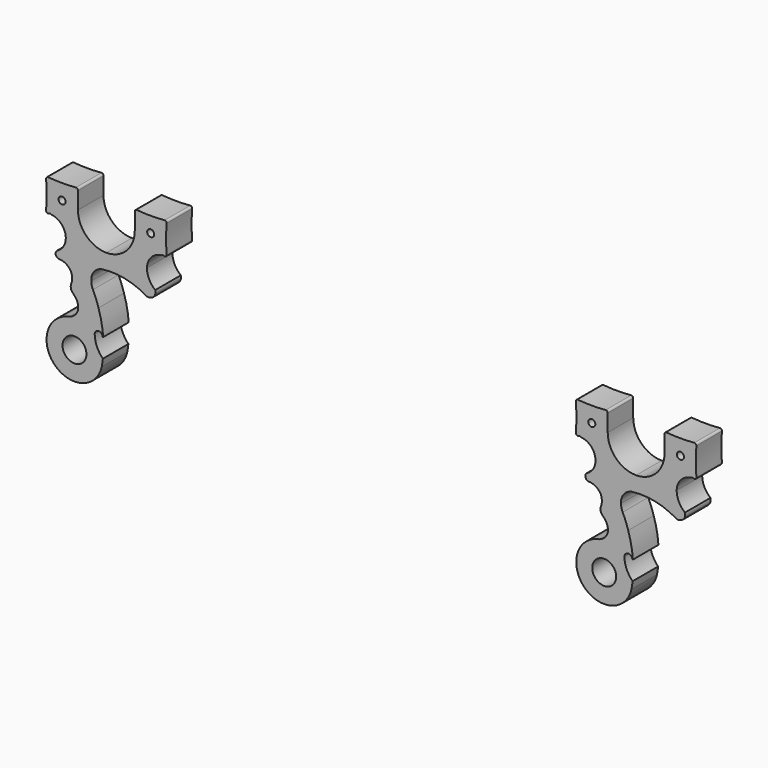
from build123d import *

# Parameters (mm, degrees)
F0_R     = 9.525
F0_R_2   = 2.8067
F1_DEPTH = 25.4


with BuildPart() as f1:
    # F0 (on Front) → F1 (new body)
    with BuildSketch(Plane.XZ):
        with BuildLine():
            Line((-22.588265, 22.588265), (-22.588265, 36.266705))
            ThreePointArc((-22.588265, 36.266705), (-23.053233, 37.389237), (-24.175765, 37.854205))
            ThreePointArc((-24.175765, 37.854205), (-35.288265, 37.365324), (-46.400765, 37.854205))
            ThreePointArc((-46.400765, 37.854205), (-47.523297, 37.389237), (-47.988265, 36.266705))
            ThreePointArc((-47.988265, 36.266705), (-47.499384, 25.154205), (-47.988265, 14.041705))
            ThreePointArc((-47.988265, 14.041705), (-47.523297, 12.919173), (-46.400765, 12.454205))
            ThreePointArc((-46.400765, 12.454205), (-45.068244, 12.890975), (-43.735723, 12.454205))
            ThreePointArc((-43.735723, 12.454205), (-35.629968, 8.337984), (-32.280601, -0.113541))
            ThreePointArc((-32.280601, -0.113541), (-33.939323, -6.291457), (-38.436144, -10.840809))
            ThreePointArc((-38.436144, -10.840809), (-40.41792, -13.832167), (-38.18399, -16.640229))
            ThreePointArc((-38.18399, -16.640229), (-32.433388, -18.067549), (-28.211591, -22.224842))
            ThreePointArc((-28.211591, -22.224842), (-27.245483, -26.860343), (-28.211591, -31.495845))
            ThreePointArc((-28.211591, -31.495845), (-28.331706, -33.559182), (-27.75751, -35.54465))
            ThreePointArc((-27.75751, -35.54465), (-26.54437, -37.116008), (-25.133502, -38.512547))
            ThreePointArc((-25.133502, -38.512547), (-22.821147, -42.839558), (-22.593847, -47.740409))
            ThreePointArc((-22.593847, -47.740409), (-25.223916, -51.955586), (-29.525784, -54.441326))
            ThreePointArc((-29.525784, -54.441326), (-41.337324, -91.767676), (-3.67647, -81.070527))
            ThreePointArc((-3.67647, -81.070527), (-3.183029, -78.114189), (-2.797664, -75.14183))
            ThreePointArc((-2.797664, -75.14183), (-7.485709, -68.271504), (-9.288668, -60.151867))
            ThreePointArc((-9.288668, -60.151867), (-6.237587, -56.858264), (-2.943329, -59.908637))
            Line((-2.943329, -59.908637), (-2.524615, -59.908637))
            ThreePointArc((-2.524615, -59.908637), (-3.840038, -50.189915), (-6.303257, -40.696946))
            ThreePointArc((-6.303257, -40.696946), (-8.243983, -34.922352), (-10.682768, -29.33982))
            ThreePointArc((-10.682768, -29.33982), (-11.687468, -26.588212), (-12.02546, -23.678483))
            ThreePointArc((-12.02546, -23.678483), (-9.912615, -16.644217), (-3.728021, -12.682425))
            ThreePointArc((-3.728021, -12.682425), (14.919126, -13.333205), (32.280601, -20.16832))
            ThreePointArc((32.280601, -20.16832), (35.212846, -20.068653), (37.716438, -18.538941))
            ThreePointArc((37.716438, -18.538941), (38.926607, -16.157288), (38.896301, -13.485985))
            ThreePointArc((38.896301, -13.485985), (34.057568, -7.557131), (32.280601, -0.113541))
            ThreePointArc((32.280601, -0.113541), (35.629968, 8.337984), (43.735723, 12.454205))
            ThreePointArc((43.735723, 12.454205), (45.068244, 12.890975), (46.400765, 12.454205))
            ThreePointArc((46.400765, 12.454205), (47.523297, 12.919173), (47.988265, 14.041705))
            ThreePointArc((47.988265, 14.041705), (47.499384, 25.154205), (47.988265, 36.266705))
            ThreePointArc((47.988265, 36.266705), (47.523297, 37.389237), (46.400765, 37.854205))
            ThreePointArc((46.400765, 37.854205), (35.288265, 37.365324), (24.175765, 37.854205))
            ThreePointArc((24.175765, 37.854205), (23.053233, 37.389237), (22.588265, 36.266705))
            Line((22.588265, 36.266705), (22.588265, 22.588265))
            ThreePointArc((22.588265, 22.588265), (15.972315, 6.61595), (0, 0))
            ThreePointArc((0, 0), (-15.972315, 6.61595), (-22.588265, 22.588265))
        make_face()
        with Locations((-25.385842, -76.283364)):
            Circle(F0_R, mode=Mode.SUBTRACT)
        with Locations((-35.288265, 25.154205)):
            Circle(F0_R_2, mode=Mode.SUBTRACT)
        with Locations((35.288265, 25.154205)):
            Circle(F0_R_2, mode=Mode.SUBTRACT)
        with BuildLine():
            Line((399.03005, 3.783013), (399.03005, 17.461453))
            ThreePointArc((399.03005, 17.461453), (398.565082, 18.583985), (397.44255, 19.048953))
            ThreePointArc((397.44255, 19.048953), (386.33005, 18.560072), (375.21755, 19.048953))
            ThreePointArc((375.21755, 19.048953), (374.095018, 18.583985), (373.63005, 17.461453))
            ThreePointArc((373.63005, 17.461453), (374.118931, 6.348953), (373.63005, -4.763547))
            ThreePointArc((373.63005, -4.763547), (374.095018, -5.886079), (375.21755, -6.351047))
            ThreePointArc((375.21755, -6.351047), (376.550071, -5.914277), (377.882592, -6.351047))
            ThreePointArc((377.882592, -6.351047), (385.988347, -10.467267), (389.337714, -18.918793))
            ThreePointArc((389.337714, -18.918793), (387.678991, -25.096708), (383.182171, -29.646061))
            ThreePointArc((383.182171, -29.646061), (381.200395, -32.637418), (383.434325, -35.445481))
            ThreePointArc((383.434325, -35.445481), (389.184926, -36.8728), (393.406724, -41.030093))
            ThreePointArc((393.406724, -41.030093), (394.372832, -45.665595), (393.406724, -50.301096))
            ThreePointArc((393.406724, -50.301096), (393.286609, -52.364433), (393.860805, -54.349902))
            ThreePointArc((393.860805, -54.349902), (395.073945, -55.921259), (396.484813, -57.317799))
            ThreePointArc((396.484813, -57.317799), (398.797167, -61.64481), (399.024467, -66.545661))
            ThreePointArc((399.024467, -66.545661), (396.394399, -70.760837), (392.09253, -73.246578))
            ThreePointArc((392.09253, -73.246578), (380.28099, -110.572928), (417.941844, -99.875779))
            ThreePointArc((417.941844, -99.875779), (418.435285, -96.91944), (418.820651, -93.947082))
            ThreePointArc((418.820651, -93.947082), (414.132606, -87.076755), (412.329646, -78.957119))
            ThreePointArc((412.329646, -78.957119), (415.380727, -75.663516), (418.674986, -78.713889))
            Line((418.674986, -78.713889), (419.0937, -78.713889))
            ThreePointArc((419.0937, -78.713889), (417.778276, -68.995166), (415.315057, -59.502197))
            ThreePointArc((415.315057, -59.502197), (413.374332, -53.727604), (410.935546, -48.145072))
            ThreePointArc((410.935546, -48.145072), (409.930847, -45.393464), (409.592855, -42.483734))
            ThreePointArc((409.592855, -42.483734), (411.7057, -35.449469), (417.890294, -31.487677))
            ThreePointArc((417.890294, -31.487677), (436.53744, -32.138457), (453.898915, -38.973571))
            ThreePointArc((453.898915, -38.973571), (456.83116, -38.873904), (459.334753, -37.344192))
            ThreePointArc((459.334753, -37.344192), (460.544921, -34.96254), (460.514615, -32.291237))
            ThreePointArc((460.514615, -32.291237), (455.675882, -26.362383), (453.898915, -18.918793))
            ThreePointArc((453.898915, -18.918793), (457.248282, -10.467267), (465.354038, -6.351047))
            ThreePointArc((465.354038, -6.351047), (466.686558, -5.914277), (468.019079, -6.351047))
            ThreePointArc((468.019079, -6.351047), (469.141611, -5.886079), (469.606579, -4.763547))
            ThreePointArc((469.606579, -4.763547), (469.117698, 6.348953), (469.606579, 17.461453))
            ThreePointArc((469.606579, 17.461453), (469.141611, 18.583985), (468.019079, 19.048953))
            ThreePointArc((468.019079, 19.048953), (456.906579, 18.560072), (445.794079, 19.048953))
            ThreePointArc((445.794079, 19.048953), (444.671547, 18.583985), (444.206579, 17.461453))
            Line((444.206579, 17.461453), (444.206579, 3.783013))
            ThreePointArc((444.206579, 3.783013), (437.59063, -12.189302), (421.618315, -18.805252))
            ThreePointArc((421.618315, -18.805252), (405.645999, -12.189302), (399.03005, 3.783013))
        make_face()
        with Locations((396.232473, -95.088615)):
            Circle(F0_R, mode=Mode.SUBTRACT)
        with Locations((386.33005, 6.348953)):
            Circle(F0_R_2, mode=Mode.SUBTRACT)
        with Locations((456.906579, 6.348953)):
            Circle(F0_R_2, mode=Mode.SUBTRACT)
    extrude(amount=F1_DEPTH)


solid = f1.part
